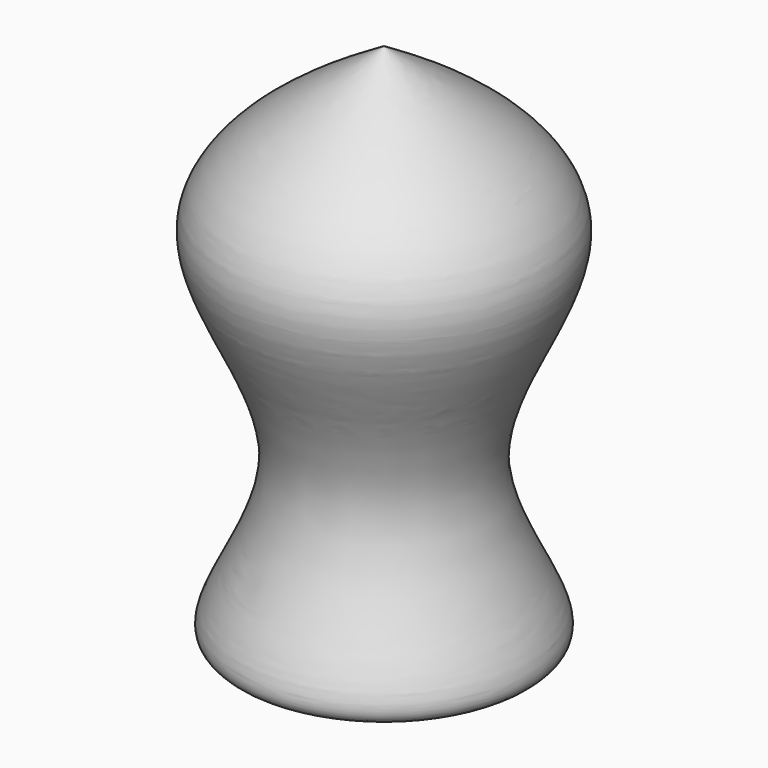
from build123d import *


with BuildPart() as f1:
    # F0 (on Front) → F1 (revolve)
    with BuildSketch(Plane.XZ):
        with BuildLine():
            add(Edge.make_bspline(
                [(0, -55.491168052), (-14.8446846002, -58.0414440035), (-45.0743052093, -63.2348096113), (-7.5721484283, -20.886735478), (-50.9272800017, 24.2630312734), (-17.1138520009, 44.9267706401), (0, 55.3852245212)],
                knots=[0, 0, 0, 0, 0.2225242258, 0.4531469078, 0.7232234813, 1, 1, 1, 1], degree=3))
            Line((0, -55.491168052), (0, 55.3852245212))
        make_face()
    revolve(axis=Axis((0, 0, -0.0529717654), (0, 0, -1)))


solid = f1.part
